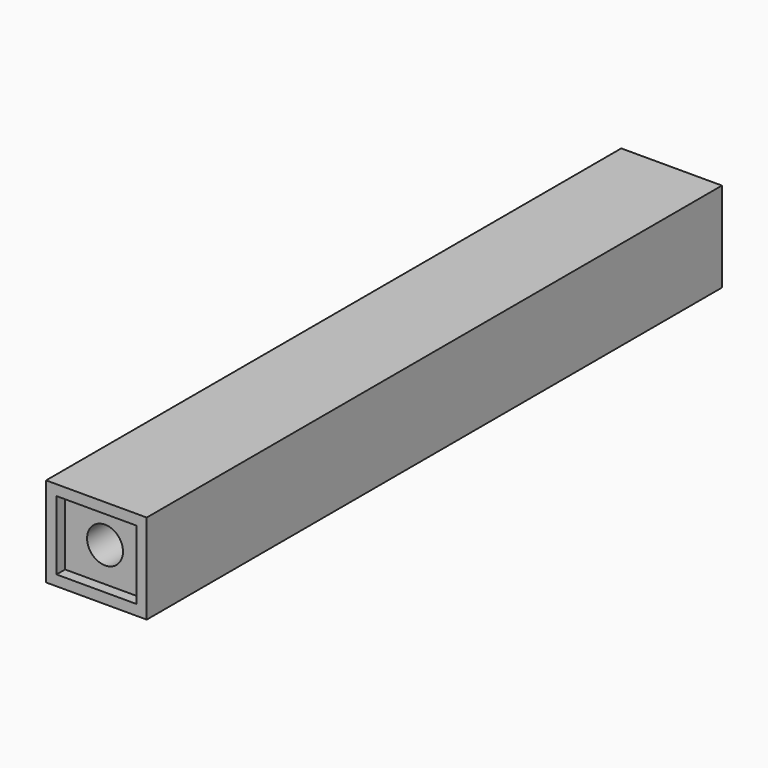
from build123d import *

# Parameters (mm, degrees)
F0_W     = 28
F0_H     = 25
F0_W_2   = 22.2
F0_H_2   = 19.2
F0_R     = 5
F1_DEPTH = 200
F2_DEPTH = 3
F3_W     = 22
F3_H     = 19
F4_DEPTH = 2.9


with BuildPart() as f1:
    # F0 (on Front) → F1 (new body)
    with BuildSketch(Plane.XZ):
        Rectangle(F0_W, F0_H)
        Rectangle(F0_W_2, F0_H_2, mode=Mode.SUBTRACT)
        Rectangle(F0_W_2, F0_H_2)
        Circle(F0_R, mode=Mode.SUBTRACT)
    extrude(amount=-F1_DEPTH)

    # F0 (on Front) → F2 (cut)
    with BuildSketch(Plane.XZ):
        Rectangle(F0_W_2, F0_H_2)
        Circle(F0_R, mode=Mode.SUBTRACT)
    extrude(amount=-F2_DEPTH, mode=Mode.SUBTRACT)

    # F3 (on face) → F4 (join)
    with BuildSketch(Plane(origin=(0, 200, 0), x_dir=(-1, 0, 0), z_dir=(0, 1, 0))):
        with Locations((0.121734367, 0.0437281778)):
            Rectangle(F3_W, F3_H)
        with BuildLine():
            ThreePointArc((-1.6292965707, 4.7270913557), (2.9717207978, 4.1519610515), (5.121734367, 0.0437281778))
            ThreePointArc((5.121734367, 0.0437281778), (4.1927589833, -2.8591597934), (1.7510309376, -4.6833631778))
            ThreePointArc((1.7510309376, -4.6833631778), (-4.7056209416, -1.690305166), (-1.6292965707, 4.7270913557))
        make_face(mode=Mode.SUBTRACT)
    extrude(amount=F4_DEPTH)


solid = f1.part
